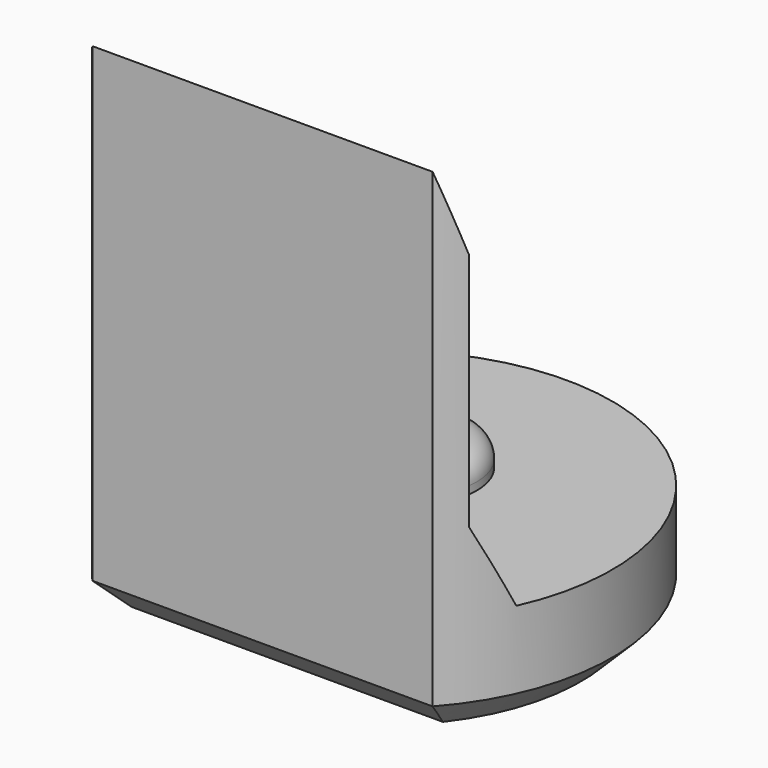
from build123d import *

# Parameters (mm, degrees)
PAD008_DEPTH         = 6.5
POCKET007_DEPTH      = 2.951
POCKET007_DEPTH_BACK = 2.951
SKETCH023_R          = 0.8
PAD009_DEPTH         = 0.4
FILLET001_R          = 0.3
CHAMFER007_SIZE      = 0.4


with BuildPart() as part:
    # Sketch022 → Pad008 (new body)
    with BuildSketch(Plane.XY):
        with BuildLine():
            ThreePointArc((2.2, -1.9653244007), (0, 2.95), (-2.2, -1.9653244007))
            Line((-2.2, -1.9653244007), (2.2, -1.9653244007))
        make_face()
    extrude(amount=PAD008_DEPTH)

    # Sketch024 → Pocket007 (cut, two sides)
    with BuildSketch(Plane.YZ) as pocket007_sk:
        Polygon((-1.97, 6.5), (-1.67, 5.5), (-1.67, 2.4), (-1.22, 1.4), (4, 1.4), (4, 6.5), align=None)
    extrude(amount=-POCKET007_DEPTH, mode=Mode.SUBTRACT)
    extrude(pocket007_sk.sketch, amount=POCKET007_DEPTH_BACK, mode=Mode.SUBTRACT)

    # Sketch023 (on Face7 of Pocket007) → Pad009 (join)
    with BuildSketch(Plane.XY.offset(1.4)):
        with Locations((0, 0.5)):
            Circle(SKETCH023_R)
    extrude(amount=PAD009_DEPTH)

    # Fillet001
    fillet001_edges = [part.edges().sort_by_distance(p)[0] for p in [
        (-0.8, 0.5, 1.8),
    ]]
    fillet(fillet001_edges, radius=FILLET001_R)

    # Chamfer007
    chamfer007_edges = [part.edges().sort_by_distance(p)[0] for p in [
        (0, 2.95, 0),
        (0, -1.965324, 0),
    ]]
    chamfer(chamfer007_edges, length=CHAMFER007_SIZE)


with BuildPart() as part_1:
    # Body088 placement: moved
    add(part.part.moved(Location((0, 48, 0))))


solid = part_1.part
